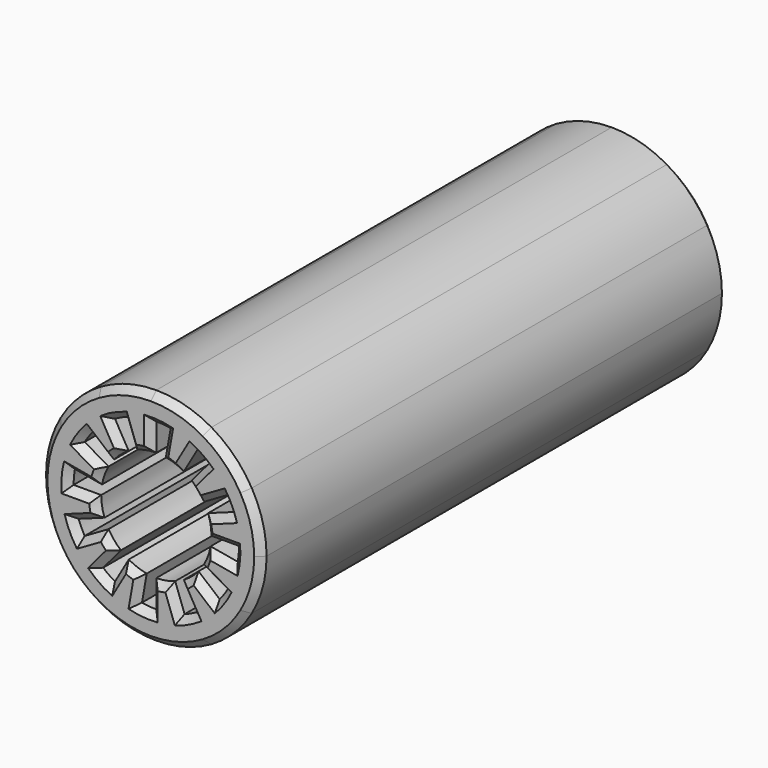
from build123d import *

# Parameters (mm, degrees)
F1_DEPTH = 42.3
F3_COUNT = 12
F3_ANGLE = 330
F4_SIZE  = 0.5


with BuildPart() as f1:
    # F0 (on Front) → F1 (new body)
    with BuildSketch(Plane.XZ):
        with BuildLine():
            Line((4, 0), (6, 0))
            ThreePointArc((6, 0), (5.908847, 1.041889), (5.638156, 2.052121))
            Line((5.638156, 2.052121), (3.75877, 1.368081))
            ThreePointArc((3.75877, 1.368081), (3.939231, 0.694593), (4, 0))
        make_face()
        with BuildLine():
            Line((6, 0), (8, 0))
            ThreePointArc((8, 0), (7.727407, 2.070552), (6.928203, 4))
            Line((6.928203, 4), (5.196152, 3))
            ThreePointArc((5.196152, 3), (5.437847, 2.53571), (5.638156, 2.052121))
            ThreePointArc((5.638156, 2.052121), (5.908847, 1.041889), (6, 0))
        make_face()
    extrude(amount=-F1_DEPTH)

    # F3: F1 ×12 about axis
    f3_axis = Axis((0, 26.213633, 0), (0, 1, 0))


with BuildPart() as f1_1:
    add(f1.part)
    for i in range(1, F3_COUNT):
        add(f1.part.rotate(f3_axis, i * F3_ANGLE / (F3_COUNT - 1)))

    # F4
    f4_edges = [f1_1.edges().sort_by_distance(p)[0] for p in [
        (3.939231, 42.3, 0.694593),
        (5, 42.3, 0),
        (5.977168, 42.3, -0.522934),
        (4.924039, 42.3, -0.868241),
        (3.75877, 42.3, -1.368081),
        (4.330127, 42.3, -2.5),
        (4.914912, 42.3, -3.441459),
        (3.830222, 42.3, -3.213938),
        (2.57115, 42.3, -3.064178),
        (2.5, 42.3, -4.330127),
        (2.53571, 42.3, -5.437847),
        (1.710101, 42.3, -4.698463),
        (0.694593, 42.3, -3.939231),
        (0, 42.3, -5),
        (-0.522934, 42.3, -5.977168),
        (-0.868241, 42.3, -4.924039),
        (-1.368081, 42.3, -3.75877),
        (-2.5, 42.3, -4.330127),
        (-3.441459, 42.3, -4.914912),
        (-3.213938, 42.3, -3.830222),
        (-3.064178, 42.3, -2.57115),
        (-4.330127, 42.3, -2.5),
        (-5.437847, 42.3, -2.53571),
        (-4.698463, 42.3, -1.710101),
        (-3.939231, 42.3, -0.694593),
        (-5, 42.3, 0),
        (-5.977168, 42.3, 0.522934),
        (-4.924039, 42.3, 0.868241),
        (-3.75877, 42.3, 1.368081),
        (-4.330127, 42.3, 2.5),
        (-4.914912, 42.3, 3.441459),
        (-3.830222, 42.3, 3.213938),
        (-2.57115, 42.3, 3.064178),
        (-2.5, 42.3, 4.330127),
        (-2.53571, 42.3, 5.437847),
        (-1.710101, 42.3, 4.698463),
        (-0.694593, 42.3, 3.939231),
        (0, 42.3, 5),
        (0.522934, 42.3, 5.977168),
        (0.868241, 42.3, 4.924039),
        (1.368081, 42.3, 3.75877),
        (2.5, 42.3, 4.330127),
        (3.441459, 42.3, 4.914912),
        (3.213938, 42.3, 3.830222),
        (3.064178, 42.3, 2.57115),
        (4.330127, 42.3, 2.5),
        (5.437847, 42.3, 2.53571),
        (4.698463, 42.3, 1.710101),
        (-6.928203, 42.3, -4),
        (3.939231, 0, 0.694593),
        (5, 0, 0),
        (5.977168, 0, -0.522934),
        (4.924039, 0, -0.868241),
        (3.75877, 0, -1.368081),
        (4.330127, 0, -2.5),
        (4.914912, 0, -3.441459),
        (3.830222, 0, -3.213938),
        (2.57115, 0, -3.064178),
        (2.5, 0, -4.330127),
        (2.53571, 0, -5.437847),
        (1.710101, 0, -4.698463),
        (0.694593, 0, -3.939231),
        (0, 0, -5),
        (-0.522934, 0, -5.977168),
        (-0.868241, 0, -4.924039),
        (-1.368081, 0, -3.75877),
        (-2.5, 0, -4.330127),
        (-3.441459, 0, -4.914912),
        (-3.213938, 0, -3.830222),
        (-3.064178, 0, -2.57115),
        (-4.330127, 0, -2.5),
        (-5.437847, 0, -2.53571),
        (-4.698463, 0, -1.710101),
        (-3.939231, 0, -0.694593),
        (-5, 0, 0),
        (-5.977168, 0, 0.522934),
        (-4.924039, 0, 0.868241),
        (-3.75877, 0, 1.368081),
        (-4.330127, 0, 2.5),
        (-4.914912, 0, 3.441459),
        (-3.830222, 0, 3.213938),
        (-2.57115, 0, 3.064178),
        (-2.5, 0, 4.330127),
        (-2.53571, 0, 5.437847),
        (-1.710101, 0, 4.698463),
        (-0.694593, 0, 3.939231),
        (0, 0, 5),
        (0.522934, 0, 5.977168),
        (0.868241, 0, 4.924039),
        (1.368081, 0, 3.75877),
        (2.5, 0, 4.330127),
        (3.441459, 0, 4.914912),
        (3.213938, 0, 3.830222),
        (3.064178, 0, 2.57115),
        (4.330127, 0, 2.5),
        (5.437847, 0, 2.53571),
        (4.698463, 0, 1.710101),
        (-6.928203, 0, -4),
    ]]
    chamfer(f4_edges, length=F4_SIZE)


solid = f1_1.part
